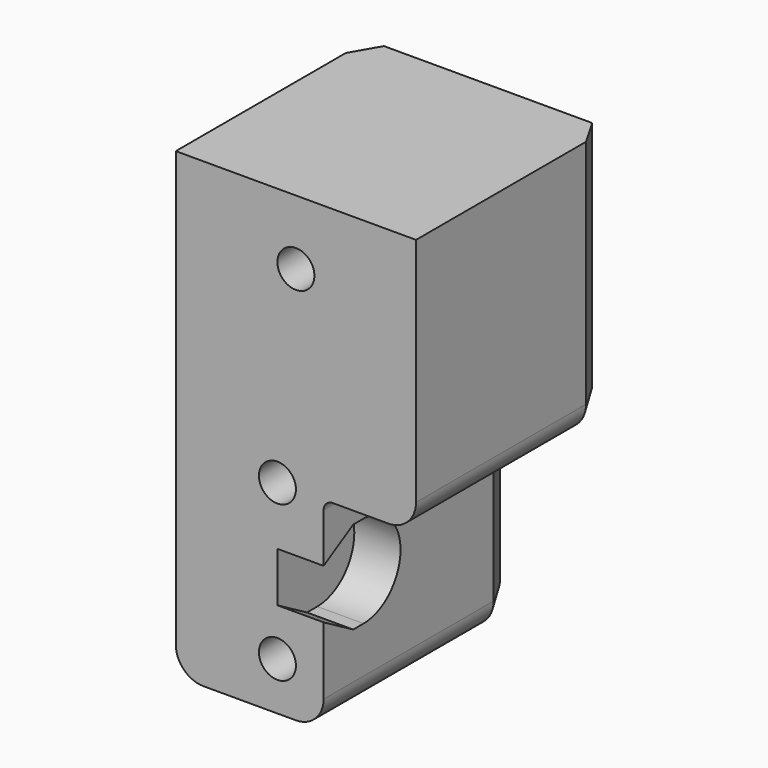
from build123d import *

# Parameters (mm, degrees)
F0_R     = 1
F1_DEPTH = 13
F3_DEPTH = 2.5
F4_R     = 1.5
F5_R     = 0.5
F6_SIZE2 = 0.8660254038
F6_SIZE  = 1.5


with BuildPart() as f1:
    # F0 (on Front) → F1 (new body)
    with BuildSketch(Plane.XZ):
        Polygon((0, 25), (0, 0), (8, 0), (8, 11), (13, 11), (13, 25), align=None)
        with Locations((5.5, 2.6)):
            Circle(F0_R, mode=Mode.SUBTRACT)
        with Locations((5.5, 11)):
            Circle(F0_R, mode=Mode.SUBTRACT)
        with Locations((6.5, 21.5)):
            Circle(F0_R, mode=Mode.SUBTRACT)
    extrude(amount=F1_DEPTH)

    # F2 (on face) → F3 (cut)
    with BuildSketch(Plane.YZ.offset(8)):
        with BuildLine():
            Line((-13, 5.1547005384), (-11, 4))
            Line((-11, 4), (-10.3, 4))
            ThreePointArc((-10.3, 4), (-7.8, 6.5), (-10.3, 9))
            Line((-10.3, 9), (-11, 9))
            Line((-11, 9), (-13, 7.8452994616))
            Line((-13, 7.8452994616), (-13, 5.1547005384))
        make_face()
    extrude(amount=-F3_DEPTH, mode=Mode.SUBTRACT)

    # F4
    f4_edges = [f1.edges().sort_by_distance(p)[0] for p in [
        (8, -6.5, 0),
        (0, -6.5, 0),
        (13, -6.5, 11),
    ]]
    fillet(f4_edges, radius=F4_R)

    # F5
    f5_edges = [f1.edges().sort_by_distance(p)[0] for p in [
        (8, -6.5, 11),
    ]]
    fillet(f5_edges, radius=F5_R)

    # F6
    f6_edges = [f1.edges().sort_by_distance(p)[0] for p in [
        (13, 0, 18.75),
    ]]
    f6_side = f1.faces().sort_by_distance((13, -6.5, 18.75))[0]
    chamfer(f6_edges, length=F6_SIZE, length2=F6_SIZE2, reference=f6_side)


solid = f1.part
